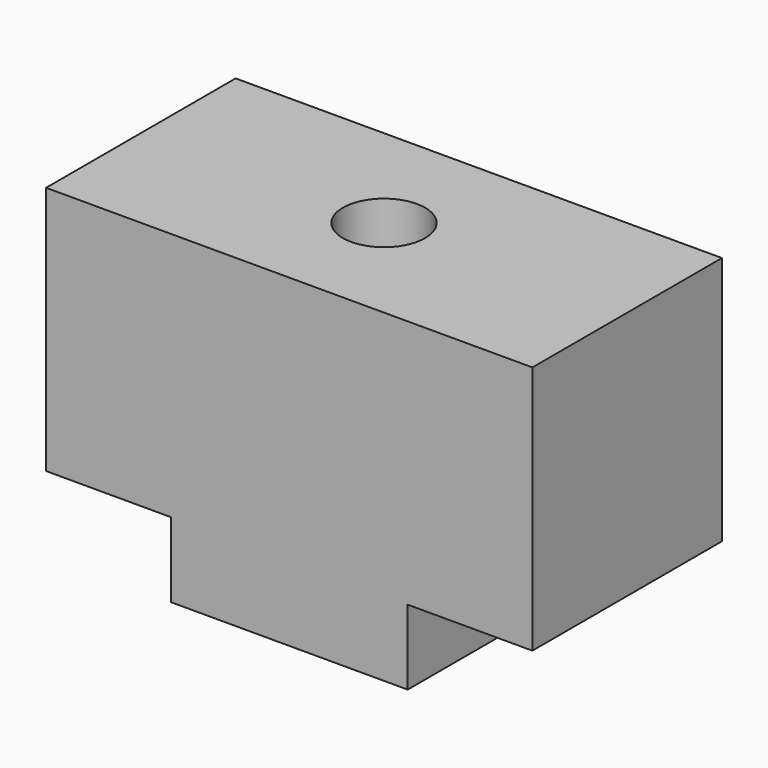
from build123d import *

# Parameters (mm, degrees)
F1_DEPTH = 9.5
F2_R     = 1.65
F3_DEPTH = 13.001


with BuildPart() as f1:
    # F0 (on Front) → F1 (new body)
    with BuildSketch(Plane.XZ):
        Polygon((9.75, 10), (0, 10), (-9.75, 10), (-9.75, 0), (-4.75, 0), (-4.75, -3), (0, -3), (4.75, -3), (4.75, 0), (9.75, 0), align=None)
    extrude(amount=F1_DEPTH)

    # F2 (on face) → F3 (cut, through all)
    with BuildSketch(Plane.XY.offset(10)):
        with Locations((0, -4.75)):
            Circle(F2_R)
    extrude(amount=-F3_DEPTH, mode=Mode.SUBTRACT)


solid = f1.part
